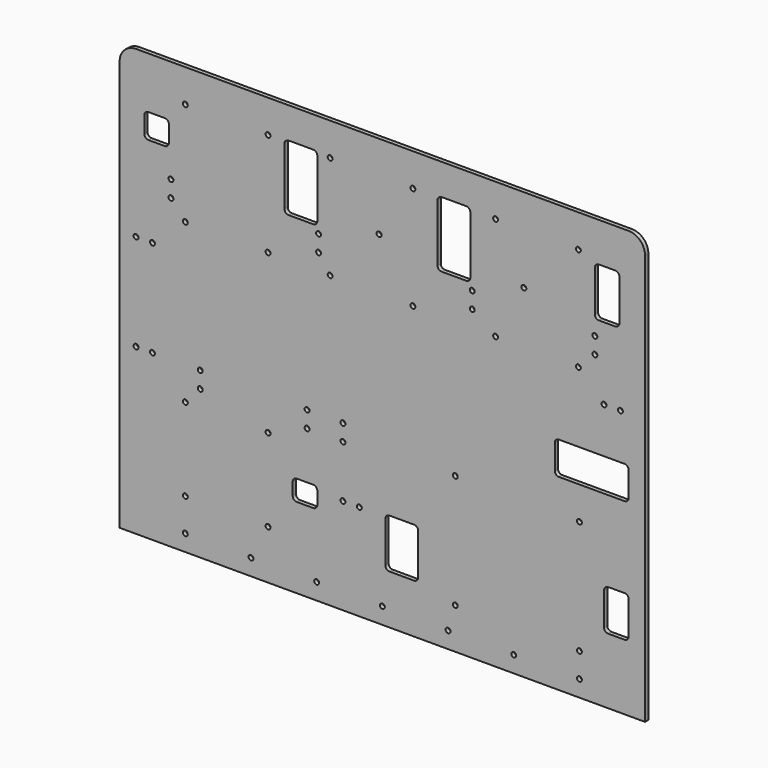
from build123d import *

# Parameters (mm, degrees)
F0_R     = 1.89865
F0_R_2   = 1.905
F1_DEPTH = 3.175


with BuildPart() as f1:
    # F0 (on Front) → F1 (new body)
    with BuildSketch(Plane.XZ):
        with BuildLine():
            Line((190.5, 165.1), (-190.5, 165.1))
            ThreePointArc((-190.5, 165.1), (-199.4802561211, 161.3802561211), (-203.2, 152.4))
            Line((-203.2, 152.4), (-203.2, -165.1))
            Line((-203.2, -165.1), (203.2, -165.1))
            Line((203.2, -165.1), (203.2, 152.4))
            ThreePointArc((203.2, 152.4), (199.4802561211, 161.3802561211), (190.5, 165.1))
        make_face()
        with Locations((-152.4, -152.4)):
            Circle(F0_R, mode=Mode.SUBTRACT)
        with Locations((-152.4, -127)):
            Circle(F0_R, mode=Mode.SUBTRACT)
        with Locations((-101.6, -152.4)):
            Circle(F0_R, mode=Mode.SUBTRACT)
        with Locations((-50.8, -152.4)):
            Circle(F0_R, mode=Mode.SUBTRACT)
        with Locations((-88.4, -127)):
            Circle(F0_R, mode=Mode.SUBTRACT)
        with Locations((0, -152.4)):
            Circle(F0_R, mode=Mode.SUBTRACT)
        with BuildLine():
            ThreePointArc((-69.35, -90.2375), (-68.4200640303, -87.9924359697), (-66.175, -87.0625))
            Line((-66.175, -87.0625), (-53.475, -87.0625))
            ThreePointArc((-53.475, -87.0625), (-51.2299359697, -87.9924359697), (-50.3, -90.2375))
            Line((-50.3, -90.2375), (-50.3, -99.7625))
            ThreePointArc((-50.3, -99.7625), (-51.2299359697, -102.0075640303), (-53.475, -102.9375))
            Line((-53.475, -102.9375), (-66.175, -102.9375))
            ThreePointArc((-66.175, -102.9375), (-68.4200640303, -102.0075640303), (-69.35, -99.7625))
            Line((-69.35, -99.7625), (-69.35, -90.2375))
        make_face(mode=Mode.SUBTRACT)
        with BuildLine():
            ThreePointArc((2.3, -92.075), (3.2299359697, -89.8299359697), (5.475, -88.9))
            Line((5.475, -88.9), (24.525, -88.9))
            ThreePointArc((24.525, -88.9), (26.7700640303, -89.8299359697), (27.7, -92.075))
            Line((27.7, -92.075), (27.7, -123.825))
            ThreePointArc((27.7, -123.825), (26.7700640303, -126.0700640303), (24.525, -127))
            Line((24.525, -127), (5.475, -127))
            ThreePointArc((5.475, -127), (3.2299359697, -126.0700640303), (2.3, -123.825))
            Line((2.3, -123.825), (2.3, -92.075))
        make_face(mode=Mode.SUBTRACT)
        with Locations((-30.4872877896, -90.7393252313)):
            Circle(F0_R_2, mode=Mode.SUBTRACT)
        with Locations((-17.7872877896, -90.7393252313)):
            Circle(F0_R_2, mode=Mode.SUBTRACT)
        with Locations((-152.4, -63)):
            Circle(F0_R, mode=Mode.SUBTRACT)
        with Locations((-190.5, -37.6)):
            Circle(F0_R_2, mode=Mode.SUBTRACT)
        with Locations((-177.8, -37.6)):
            Circle(F0_R_2, mode=Mode.SUBTRACT)
        with Locations((-140.8782303333, -50.3)):
            Circle(F0_R_2, mode=Mode.SUBTRACT)
        with Locations((-140.8782303333, -37.6)):
            Circle(F0_R_2, mode=Mode.SUBTRACT)
        with Locations((-88.4, -63)):
            Circle(F0_R, mode=Mode.SUBTRACT)
        with Locations((-58.2065284252, -50.3)):
            Circle(F0_R_2, mode=Mode.SUBTRACT)
        with Locations((-58.2065284252, -37.6)):
            Circle(F0_R_2, mode=Mode.SUBTRACT)
        with Locations((-30.4872877896, -50.3)):
            Circle(F0_R_2, mode=Mode.SUBTRACT)
        with Locations((-30.4872877896, -37.6)):
            Circle(F0_R_2, mode=Mode.SUBTRACT)
        with Locations((50.8, -152.4)):
            Circle(F0_R, mode=Mode.SUBTRACT)
        with Locations((56.4, -133.35)):
            Circle(F0_R, mode=Mode.SUBTRACT)
        with Locations((101.6, -152.4)):
            Circle(F0_R, mode=Mode.SUBTRACT)
        with Locations((152.4, -152.4)):
            Circle(F0_R, mode=Mode.SUBTRACT)
        with Locations((152.4, -133.35)):
            Circle(F0_R, mode=Mode.SUBTRACT)
        with BuildLine():
            ThreePointArc((171.45, -85.725), (172.3799359697, -83.4799359697), (174.625, -82.55))
            Line((174.625, -82.55), (187.325, -82.55))
            ThreePointArc((187.325, -82.55), (189.5700640303, -83.4799359697), (190.5, -85.725))
            Line((190.5, -85.725), (190.5, -111.125))
            ThreePointArc((190.5, -111.125), (189.5700640303, -113.3700640303), (187.325, -114.3))
            Line((187.325, -114.3), (174.625, -114.3))
            ThreePointArc((174.625, -114.3), (172.3799359697, -113.3700640303), (171.45, -111.125))
            Line((171.45, -111.125), (171.45, -85.725))
        make_face(mode=Mode.SUBTRACT)
        with Locations((56.4, -45.35)):
            Circle(F0_R, mode=Mode.SUBTRACT)
        with Locations((152.4, -45.35)):
            Circle(F0_R, mode=Mode.SUBTRACT)
        with BuildLine():
            ThreePointArc((133.35, 2.275), (134.2799359697, 4.5200640303), (136.525, 5.45))
            Line((136.525, 5.45), (187.325, 5.45))
            ThreePointArc((187.325, 5.45), (189.5700640303, 4.5200640303), (190.5, 2.275))
            Line((190.5, 2.275), (190.5, -16.775))
            ThreePointArc((190.5, -16.775), (189.5700640303, -19.0200640303), (187.325, -19.95))
            Line((187.325, -19.95), (136.525, -19.95))
            ThreePointArc((136.525, -19.95), (134.2799359697, -19.0200640303), (133.35, -16.775))
            Line((133.35, -16.775), (133.35, 2.275))
        make_face(mode=Mode.SUBTRACT)
        with Locations((-190.5, 37.1834747493)):
            Circle(F0_R_2, mode=Mode.SUBTRACT)
        with Locations((-177.8, 37.1834747493)):
            Circle(F0_R_2, mode=Mode.SUBTRACT)
        with Locations((-152.4, 59.7)):
            Circle(F0_R, mode=Mode.SUBTRACT)
        with Locations((-163.5061204433, 72.4)):
            Circle(F0_R_2, mode=Mode.SUBTRACT)
        with Locations((-163.5061204433, 85.1)):
            Circle(F0_R_2, mode=Mode.SUBTRACT)
        with Locations((-88.4, 59.7)):
            Circle(F0_R, mode=Mode.SUBTRACT)
        with Locations((-40.4, 59.7)):
            Circle(F0_R, mode=Mode.SUBTRACT)
        with Locations((-49.3557117879, 72.4)):
            Circle(F0_R_2, mode=Mode.SUBTRACT)
        with Locations((-49.3557117879, 85.1)):
            Circle(F0_R_2, mode=Mode.SUBTRACT)
        with BuildLine():
            ThreePointArc((-184.15, 122.05), (-183.2200640303, 124.2950640303), (-180.975, 125.225))
            Line((-180.975, 125.225), (-168.275, 125.225))
            ThreePointArc((-168.275, 125.225), (-166.0299359697, 124.2950640303), (-165.1, 122.05))
            Line((-165.1, 122.05), (-165.1, 109.35))
            ThreePointArc((-165.1, 109.35), (-166.0299359697, 107.1049359697), (-168.275, 106.175))
            Line((-168.275, 106.175), (-180.975, 106.175))
            ThreePointArc((-180.975, 106.175), (-183.2200640303, 107.1049359697), (-184.15, 109.35))
            Line((-184.15, 109.35), (-184.15, 122.05))
        make_face(mode=Mode.SUBTRACT)
        with Locations((-152.4, 139.7)):
            Circle(F0_R, mode=Mode.SUBTRACT)
        with BuildLine():
            ThreePointArc((-75.7, 137.925), (-74.7700640303, 140.1700640303), (-72.525, 141.1))
            Line((-72.525, 141.1), (-53.475, 141.1))
            ThreePointArc((-53.475, 141.1), (-51.2299359697, 140.1700640303), (-50.3, 137.925))
            Line((-50.3, 137.925), (-50.3, 93.475))
            ThreePointArc((-50.3, 93.475), (-51.2299359697, 91.2299359697), (-53.475, 90.3))
            Line((-53.475, 90.3), (-72.525, 90.3))
            ThreePointArc((-72.525, 90.3), (-74.7700640303, 91.2299359697), (-75.7, 93.475))
            Line((-75.7, 93.475), (-75.7, 137.925))
        make_face(mode=Mode.SUBTRACT)
        with Locations((-2.5362023386, 100.0438879837)):
            Circle(F0_R, mode=Mode.SUBTRACT)
        with Locations((-88.4, 139.7)):
            Circle(F0_R, mode=Mode.SUBTRACT)
        with Locations((-40.4, 139.7)):
            Circle(F0_R, mode=Mode.SUBTRACT)
        with Locations((23.6, 59.7)):
            Circle(F0_R, mode=Mode.SUBTRACT)
        with Locations((69.5100128651, 72.4)):
            Circle(F0_R_2, mode=Mode.SUBTRACT)
        with Locations((69.5100128651, 85.1)):
            Circle(F0_R_2, mode=Mode.SUBTRACT)
        with Locations((87.6, 59.7)):
            Circle(F0_R, mode=Mode.SUBTRACT)
        with Locations((171.45, 40.65)):
            Circle(F0_R_2, mode=Mode.SUBTRACT)
        with Locations((184.15, 40.65)):
            Circle(F0_R_2, mode=Mode.SUBTRACT)
        with Locations((151.6, 59.7)):
            Circle(F0_R, mode=Mode.SUBTRACT)
        with Locations((164.3778979778, 72.4)):
            Circle(F0_R_2, mode=Mode.SUBTRACT)
        with Locations((164.3778979778, 85.1)):
            Circle(F0_R_2, mode=Mode.SUBTRACT)
        with BuildLine():
            ThreePointArc((42.65, 137.925), (43.5799359697, 140.1700640303), (45.825, 141.1))
            Line((45.825, 141.1), (64.875, 141.1))
            ThreePointArc((64.875, 141.1), (67.1200640303, 140.1700640303), (68.05, 137.925))
            Line((68.05, 137.925), (68.05, 93.475))
            ThreePointArc((68.05, 93.475), (67.1200640303, 91.2299359697), (64.875, 90.3))
            Line((64.875, 90.3), (45.825, 90.3))
            ThreePointArc((45.825, 90.3), (43.5799359697, 91.2299359697), (42.65, 93.475))
            Line((42.65, 93.475), (42.65, 137.925))
        make_face(mode=Mode.SUBTRACT)
        with Locations((109.4637976614, 100.0438879837)):
            Circle(F0_R, mode=Mode.SUBTRACT)
        with Locations((23.6, 139.7)):
            Circle(F0_R, mode=Mode.SUBTRACT)
        with Locations((87.6, 139.7)):
            Circle(F0_R, mode=Mode.SUBTRACT)
        with BuildLine():
            ThreePointArc((164.3, 131.575), (165.2299359697, 133.8200640303), (167.475, 134.75))
            Line((167.475, 134.75), (180.175, 134.75))
            ThreePointArc((180.175, 134.75), (182.4200640303, 133.8200640303), (183.35, 131.575))
            Line((183.35, 131.575), (183.35, 99.825))
            ThreePointArc((183.35, 99.825), (182.4200640303, 97.5799359697), (180.175, 96.65))
            Line((180.175, 96.65), (167.475, 96.65))
            ThreePointArc((167.475, 96.65), (165.2299359697, 97.5799359697), (164.3, 99.825))
            Line((164.3, 99.825), (164.3, 131.575))
        make_face(mode=Mode.SUBTRACT)
        with Locations((151.6, 139.7)):
            Circle(F0_R, mode=Mode.SUBTRACT)
    extrude(amount=F1_DEPTH)


solid = f1.part
